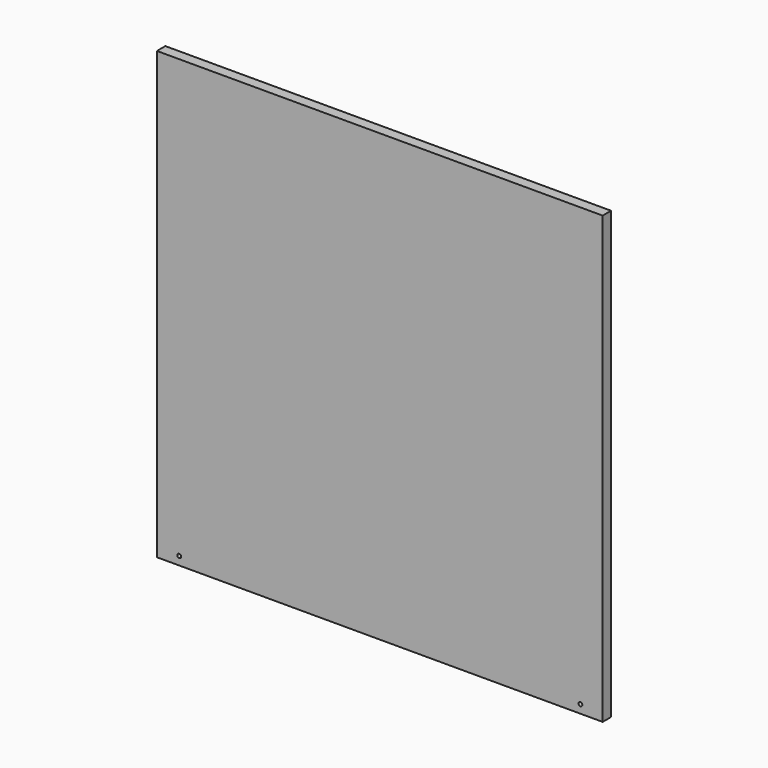
from build123d import *

# Parameters (mm, degrees)
SKETCH002_W     = 254
SKETCH002_H     = 6
PAD002_DEPTH    = 254
SKETCH035_R     = 1.1
POCKET006_DEPTH = 724.521703


with BuildPart() as part:
    # Sketch002 → Pad002 (new body)
    with BuildSketch(Plane.XY.offset(1.6)):
        with Locations((0, 3)):
            Rectangle(SKETCH002_W, SKETCH002_H)
    extrude(amount=PAD002_DEPTH)

    # Sketch035 (on Face1 of Pad002) → Pocket006 (cut, through all)
    with BuildSketch(Plane(origin=(0, 6, 0), x_dir=(-1, 0, 0), z_dir=(0, 1, 0))):
        with Locations((114.3, 6.4)):
            Circle(SKETCH035_R)
    pocket006 = extrude(amount=-POCKET006_DEPTH, mode=Mode.SUBTRACT)

    # Mirrored: Pocket006 across Sketch035 V_Axis
    add(pocket006.mirror(Plane(origin=(0, 6, 0), x_dir=(0, 1, 0), z_dir=(-1, 0, 0))), mode=Mode.SUBTRACT)


with BuildPart() as part_1:
    # Body002 placement: moved
    add(part.part.moved(Location((0, -6, 1.6))))


solid = part_1.part
